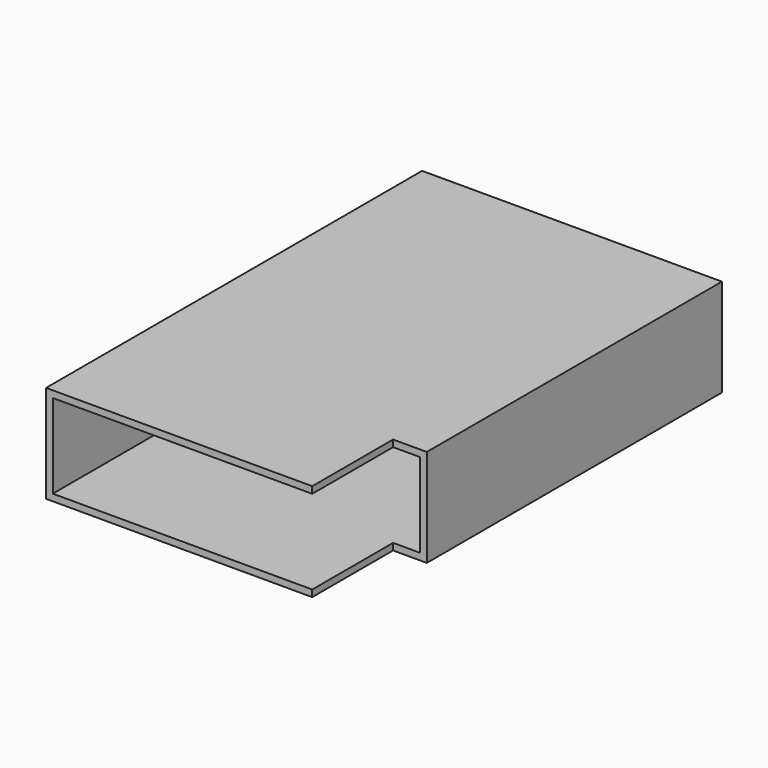
from build123d import *

# Parameters (mm, degrees)
SKETCH015_W             = 35.6
SKETCH015_H             = 11.6
PAD010_DEPTH            = 0.8
SKETCH016_W             = 35.6
SKETCH016_H             = 11.6
SKETCH016_W_2           = 34
SKETCH016_H_2           = 10
PAD011_DEPTH            = 55.8
SKETCH017_W             = 4
SKETCH017_H             = 12
POCKET005_DEPTH         = 5.8
BODY004_PLACEMENT_ANGLE = 180


with BuildPart() as part:
    # Sketch015 → Pad010 (new body)
    with BuildSketch(Plane.XZ):
        Rectangle(SKETCH015_W, SKETCH015_H)
    extrude(amount=PAD010_DEPTH)

    # Sketch016 → Pad011 (join)
    with BuildSketch(Plane.XZ):
        Rectangle(SKETCH016_W, SKETCH016_H)
        Rectangle(SKETCH016_W_2, SKETCH016_H_2, mode=Mode.SUBTRACT)
    extrude(amount=PAD011_DEPTH)

    # Sketch017 → Pocket005 (cut, symmetric)
    with BuildSketch(Plane.XY):
        with Locations((-15.8, -49.8)):
            Rectangle(SKETCH017_W, SKETCH017_H)
    extrude(amount=POCKET005_DEPTH, both=True, mode=Mode.SUBTRACT)


with BuildPart() as part_1:
    # Body004 placement: moved
    add(part.part.moved(Location((-21, 23.8, 107))).rotate(Axis((-21, 23.8, 107), (0, 1, 0)), BODY004_PLACEMENT_ANGLE))


solid = part_1.part
